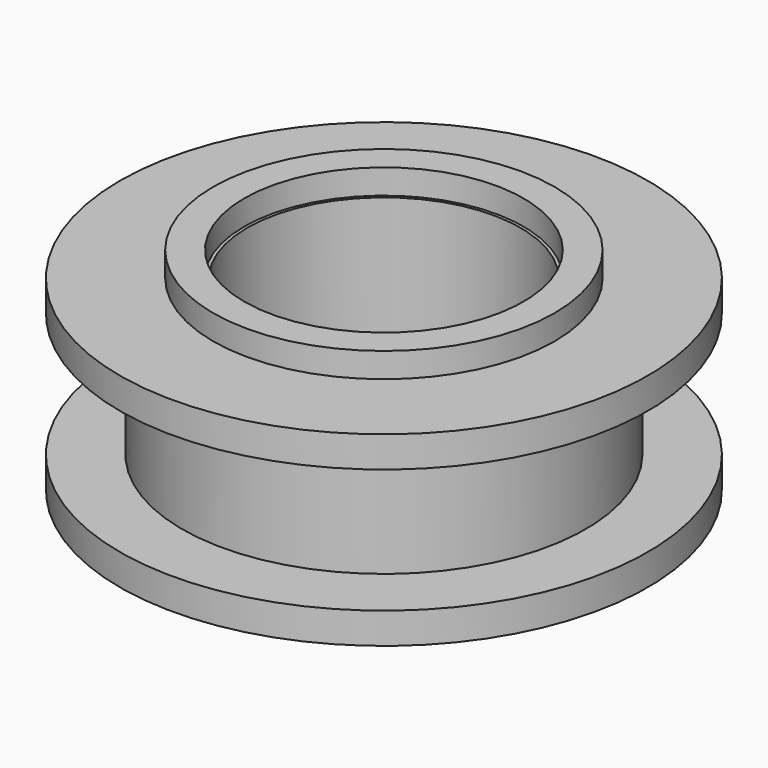
from build123d import *

# Parameters (mm, degrees)
F0_W   = 0.025
F0_H   = 1.5
F0_W_2 = 0.25
F0_H_2 = 0.2


with BuildPart() as f1:
    # F0 (on Front) → F1 (revolve)
    with BuildSketch(Plane.XZ):
        with Locations((-1.1125, 0.75)):
            Rectangle(F0_W, F0_H)
        with Locations((-1.25, 0.75)):
            Rectangle(F0_W_2, F0_H)
        with Locations((-1.25, 1.6)):
            Rectangle(F0_W_2, F0_H_2)
        with Locations((-1.25, -0.1)):
            Rectangle(F0_W_2, F0_H_2)
        Polygon((-2.125, 0), (-1.375, 0), (-1.375, 1.5), (-2.125, 1.5), (-2.125, 1.25), (-1.625, 1.25), (-1.625, 0.25), (-2.125, 0.25), align=None)
    revolve(axis=Axis((0, 0, 0.75), (0, 0, 1)))


solid = f1.part
